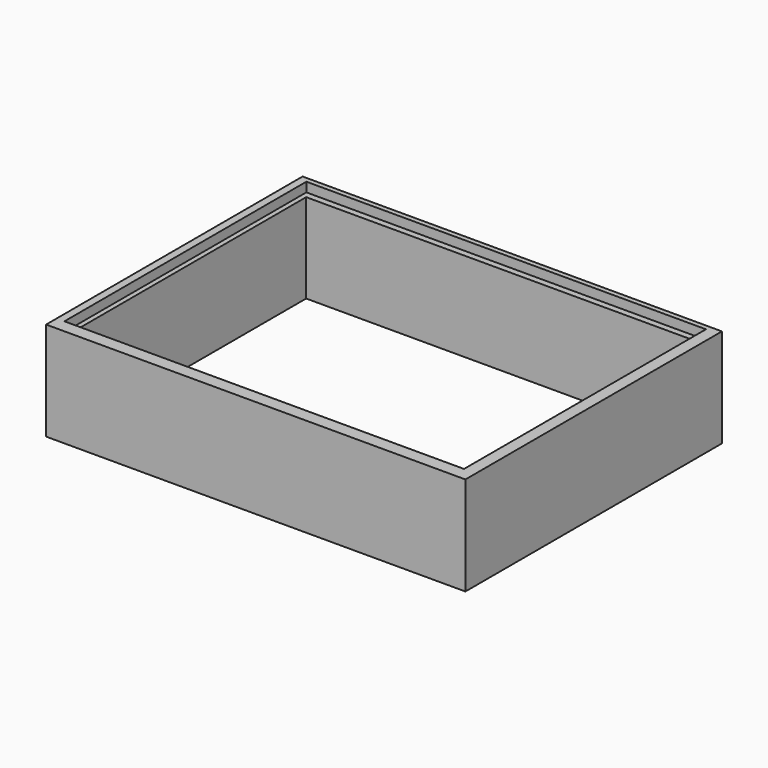
from build123d import *

# Parameters (mm, degrees)
F0_W     = 215.9
F0_H     = 165.1
F1_DEPTH = 50.8
F2_W     = 203.2
F2_H     = 152.4
F3_DEPTH = 50.8
F4_W     = 152.4
F4_H     = 4.8418088436
F5_DEPTH = 2.54
F6_W     = 205.74
F6_H     = 4.8418088436
F7_DEPTH = 3.302


with BuildPart() as f1:
    # F0 (on Top) → F1 (new body)
    with BuildSketch(Plane.XY):
        with Locations((107.95, 82.55)):
            Rectangle(F0_W, F0_H)
    extrude(amount=F1_DEPTH)

    # F2 (on face) → F3 (cut)
    with BuildSketch(Plane(origin=(0, 0, 0), x_dir=(1, 0, 0), z_dir=(0, 0, -1))):
        with Locations((108.1436636686, -83.0071964197)):
            Rectangle(F2_W, F2_H)
    extrude(amount=-F3_DEPTH, mode=Mode.SUBTRACT)

    # F4 (on face) → F5 (cut)
    with BuildSketch(Plane.YZ.offset(6.5436636686)):
        with Locations((83.0071964197, 48.3790955782)):
            Rectangle(F4_W, F4_H)
    extrude(amount=-F5_DEPTH, mode=Mode.SUBTRACT)

    # F6 (on face) → F7 (cut)
    with BuildSketch(Plane.XZ.offset(-159.2071964197)):
        with Locations((106.8736636686, 48.3790955782)):
            Rectangle(F6_W, F6_H)
    extrude(amount=-F7_DEPTH, mode=Mode.SUBTRACT)


solid = f1.part
